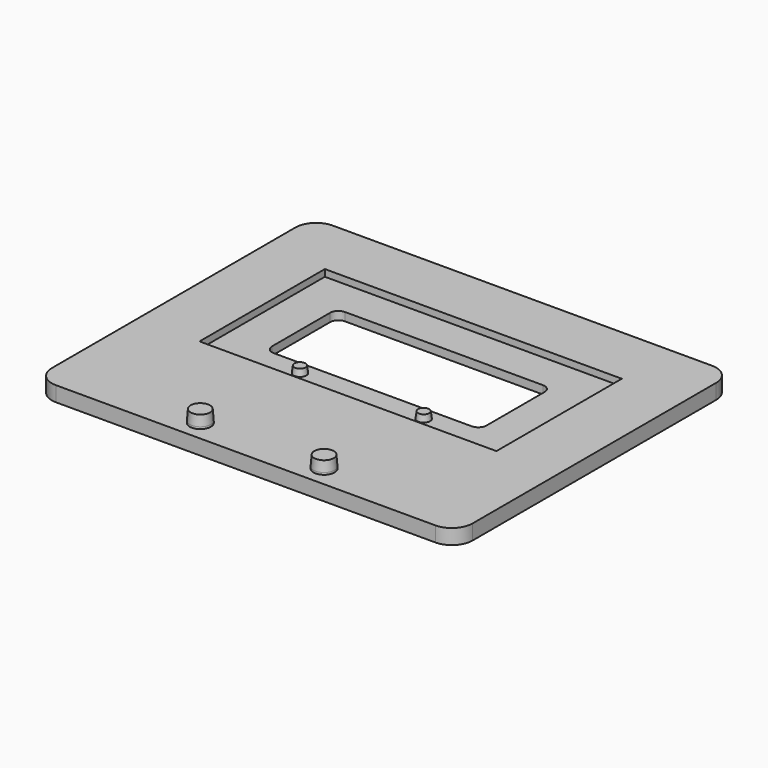
from build123d import *

# Parameters (mm, degrees)
PAD_DEPTH          = 3.65
SKETCH002_R        = 2.55
PAD002_DEPTH       = 3
SKETCH006_W        = 72
SKETCH006_H        = 38
POCKET001_DEPTH    = 1.65
SKETCH003_R        = 1.55
PAD003_DEPTH       = 1.65
CHAMFER_1_SIZE2    = 0.2
CHAMFER_1_SIZE     = 2.5
CHAMFER_2_SIZE2    = 0.2
CHAMFER_2_SIZE     = 2.5
CHAMFER001_1_SIZE2 = 0.2
CHAMFER001_1_SIZE  = 1.55
CHAMFER001_2_SIZE2 = 0.2
CHAMFER001_2_SIZE  = 1.55
POCKET_DEPTH       = 6.651


with BuildPart() as part:
    # Sketch001 → Pad (new body)
    with BuildSketch(Plane.XY):
        with BuildLine():
            Line((-51, 73.85), (-51, 0))
            ThreePointArc((-51, 0), (-49.535534, -3.535534), (-46, -5))
            Line((-46, -5), (46, -5))
            ThreePointArc((46, -5), (49.535534, -3.535534), (51, 0))
            Line((51, 0), (51, 73.85))
            ThreePointArc((51, 73.85), (49.535534, 77.385534), (46, 78.85))
            Line((46, 78.85), (-46, 78.85))
            ThreePointArc((-46, 78.85), (-49.535534, 77.385534), (-51, 73.85))
        make_face()
    extrude(amount=PAD_DEPTH)

    # Sketch002 → Pad002 (join)
    with BuildSketch(Plane.XY.offset(3.65)):
        with Locations((-15, 0)):
            Circle(SKETCH002_R)
        with Locations((15, 0)):
            Circle(SKETCH002_R)
    extrude(amount=PAD002_DEPTH)

    # Sketch006 → Pocket001 (cut)
    with BuildSketch(Plane.XY.offset(3.65)):
        with Locations((0, 45)):
            Rectangle(SKETCH006_W, SKETCH006_H)
    extrude(amount=-POCKET001_DEPTH, mode=Mode.SUBTRACT)

    # Sketch003 → Pad003 (join)
    with BuildSketch(Plane.XY.offset(2)):
        with Locations((-15, 30.2)):
            Circle(SKETCH003_R)
        with Locations((15, 30.2)):
            Circle(SKETCH003_R)
    extrude(amount=PAD003_DEPTH)

    # Chamfer 1
    chamfer_1_edges = [part.edges().sort_by_distance(p)[0] for p in [
        (-17.55, 0, 6.65),
    ]]
    chamfer_1_side = part.faces().sort_by_distance((-17.55, 0, 5.15))[0]
    chamfer(chamfer_1_edges, length=CHAMFER_1_SIZE, length2=CHAMFER_1_SIZE2, reference=chamfer_1_side)

    # Chamfer 2
    chamfer_2_edges = [part.edges().sort_by_distance(p)[0] for p in [
        (12.45, 0, 6.65),
    ]]
    chamfer_2_side = part.faces().sort_by_distance((12.45, 0, 5.15))[0]
    chamfer(chamfer_2_edges, length=CHAMFER_2_SIZE, length2=CHAMFER_2_SIZE2, reference=chamfer_2_side)

    # Chamfer001 1
    chamfer001_1_edges = [part.edges().sort_by_distance(p)[0] for p in [
        (-16.55, 30.2, 3.65),
    ]]
    chamfer001_1_side = part.faces().sort_by_distance((-16.55, 30.2, 2.825))[0]
    chamfer(chamfer001_1_edges, length=CHAMFER001_1_SIZE, length2=CHAMFER001_1_SIZE2, reference=chamfer001_1_side)

    # Chamfer001 2
    chamfer001_2_edges = [part.edges().sort_by_distance(p)[0] for p in [
        (13.45, 30.2, 3.65),
    ]]
    chamfer001_2_side = part.faces().sort_by_distance((13.45, 30.2, 2.825))[0]
    chamfer(chamfer001_2_edges, length=CHAMFER001_2_SIZE, length2=CHAMFER001_2_SIZE2, reference=chamfer001_2_side)

    # Sketch005 → Pocket (cut, through all)
    with BuildSketch(Plane.XY):
        with BuildLine():
            Line((-26, 53.1), (-26, 35.5))
            ThreePointArc((-26, 35.5), (-25.414214, 34.085786), (-24, 33.5))
            Line((-24, 33.5), (24, 33.5))
            ThreePointArc((24, 33.5), (25.414214, 34.085786), (26, 35.5))
            Line((26, 35.5), (26, 53.1))
            ThreePointArc((26, 53.1), (25.414214, 54.514214), (24, 55.1))
            Line((24, 55.1), (-24, 55.1))
            ThreePointArc((-24, 55.1), (-25.414214, 54.514214), (-26, 53.1))
        make_face()
    extrude(amount=POCKET_DEPTH, mode=Mode.SUBTRACT)


solid = part.part
